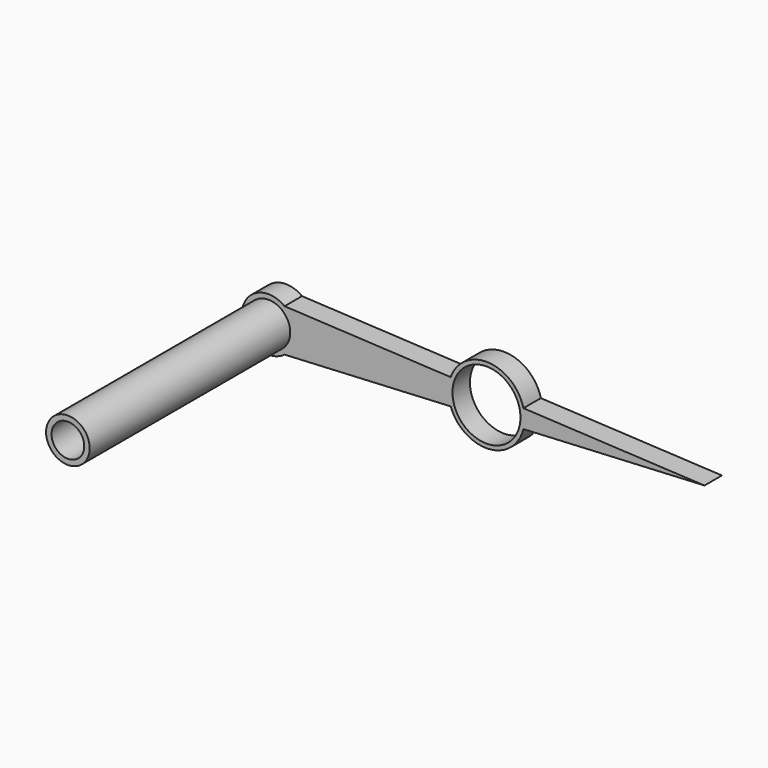
from build123d import *

# Parameters (mm, degrees)
F0_R     = 3.119034
F1_DEPTH = 1
F2_R     = 2
F3_DEPTH = 25
F4_R     = 1.5
F5_DEPTH = 25


with BuildPart() as f1:
    # F0 (on Front) → F1 (new body, symmetric)
    with BuildSketch(Plane.XZ):
        with BuildLine():
            ThreePointArc((1.47637, -1.955206), (2.193126, -1.092106), (2.45, 0))
            ThreePointArc((2.45, 0), (2.193126, 1.092106), (1.47637, 1.955206))
            ThreePointArc((1.47637, 1.955206), (-2.45, 0), (1.47637, -1.955206))
        make_face()
        with BuildLine():
            ThreePointArc((1.47637, 1.955206), (2.193126, 1.092106), (2.45, 0))
            ThreePointArc((2.45, 0), (2.193126, -1.092106), (1.47637, -1.955206))
            Line((1.47637, -1.955206), (16.712802, -1.181905))
            ThreePointArc((16.712802, -1.181905), (16.506782, 0), (16.712802, 1.181905))
            Line((16.712802, 1.181905), (1.47637, 1.955206))
        make_face()
        with BuildLine():
            ThreePointArc((23.38997, 0.843016), (20.177065, 3.488727), (16.712802, 1.181905))
            ThreePointArc((16.712802, 1.181905), (16.506782, 0), (16.712802, -1.181905))
            ThreePointArc((16.712802, -1.181905), (20.177065, -3.488727), (23.38997, -0.843016))
            ThreePointArc((23.38997, -0.843016), (23.46731, -0.424657), (23.493218, 0))
            ThreePointArc((23.493218, 0), (23.46731, 0.424657), (23.38997, 0.843016))
        make_face()
        with Locations((20, 0)):
            Circle(F0_R, mode=Mode.SUBTRACT)
        with BuildLine():
            Line((40, 0), (23.38997, 0.843016))
            ThreePointArc((23.38997, 0.843016), (23.46731, 0.424657), (23.493218, 0))
            ThreePointArc((23.493218, 0), (23.46731, -0.424657), (23.38997, -0.843016))
            Line((23.38997, -0.843016), (40, 0))
        make_face()
    extrude(amount=F1_DEPTH, both=True)

    # F2 (on face) → F3 (join)
    with BuildSketch(Plane(origin=(0, 1, 0), x_dir=(-1, 0, 0), z_dir=(0, 1, 0))):
        Circle(F2_R)
    extrude(amount=-F3_DEPTH)

    # F4 (on face) → F5 (cut)
    with BuildSketch(Plane.XZ.offset(24)):
        Circle(F4_R)
    extrude(amount=-F5_DEPTH, mode=Mode.SUBTRACT)


solid = f1.part
